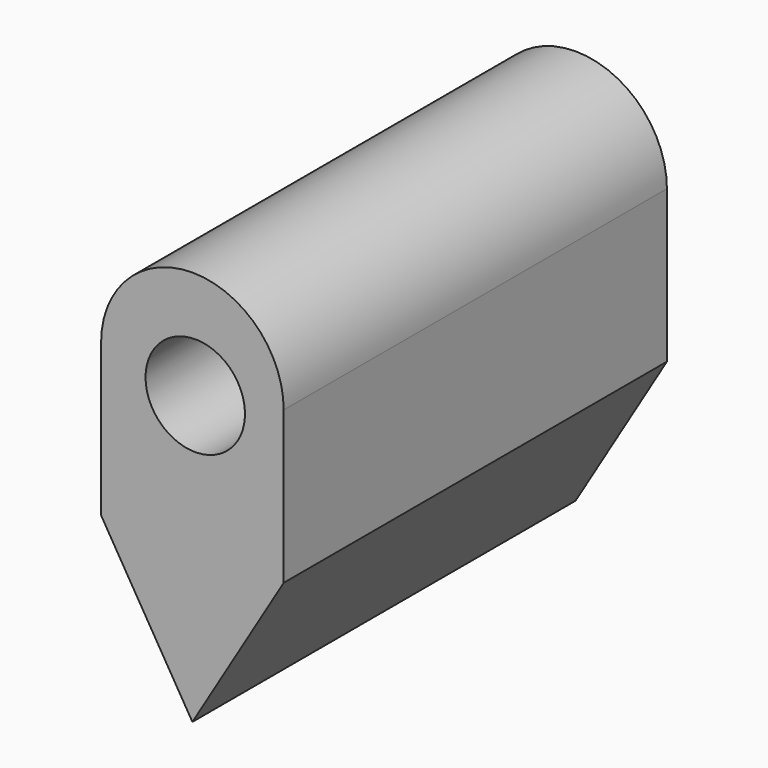
from build123d import *

# Parameters (mm, degrees)
F1_DEPTH = 199.88325
F2_R     = 20.749815
F3_DEPTH = 239.77543


with BuildPart() as f1:
    # F0 (on Front) → F1 (new body)
    with BuildSketch(Plane.XZ):
        with BuildLine():
            Line((0, 63.5), (38.1, 0))
            Line((38.1, 0), (76.2, 63.5))
            Line((76.2, 63.5), (76.2, 127))
            ThreePointArc((76.2, 127), (38.1, 88.9), (0, 127))
            Line((0, 127), (0, 63.5))
        make_face()
        with BuildLine():
            Line((76.2, 127), (0, 127))
            ThreePointArc((0, 127), (38.1, 88.9), (76.2, 127))
        make_face()
        with BuildLine():
            ThreePointArc((76.2, 127), (38.1, 165.1), (0, 127))
            Line((0, 127), (76.2, 127))
        make_face()
    extrude(amount=F1_DEPTH)

    # F2 (on face) → F3 (cut)
    with BuildSketch(Plane(origin=(0, 0, 0), x_dir=(-1, 0, 0), z_dir=(0, 1, 0))):
        with Locations((-39.291214, 120.238699)):
            Circle(F2_R)
    extrude(amount=-F3_DEPTH, mode=Mode.SUBTRACT)


solid = f1.part
